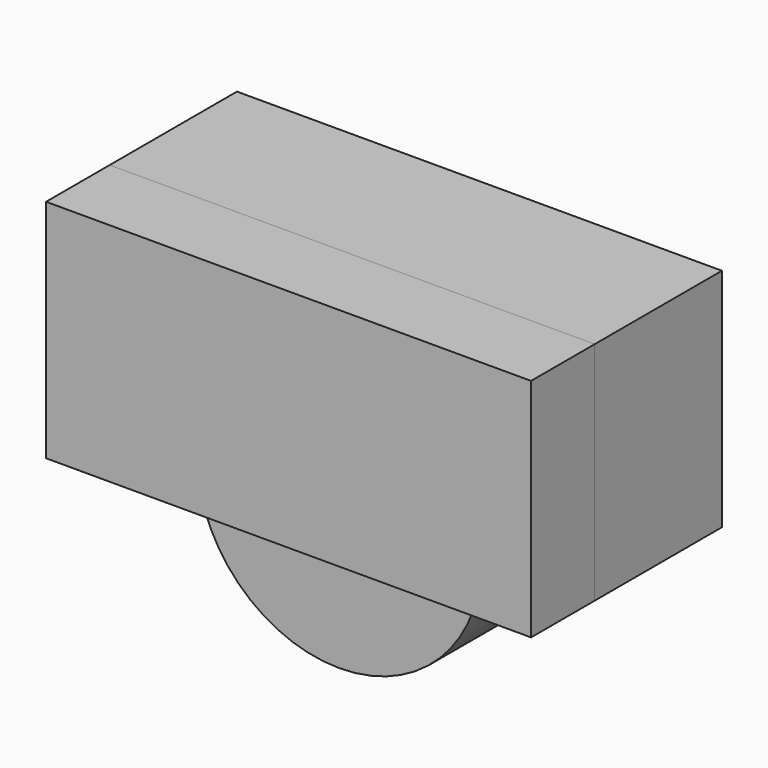
from build123d import *

# Parameters (mm, degrees)
F0_W     = 77.448103
F0_H     = 36.063619
F1_DEPTH = 25.4
F3_DEPTH = 12.7


with BuildPart() as f1:
    # F0 (on Front) → F1 (new body)
    with BuildSketch(Plane.XZ):
        with Locations((2.069225, 18.031809)):
            Rectangle(F0_W, F0_H)
    extrude(amount=F1_DEPTH)


with BuildPart() as f3:
    # F2 (on face) → F3 (new body, symmetric)
    with BuildSketch(Plane(origin=(0, 0, 0), x_dir=(-1, 0, 0), z_dir=(0, 1, 0))):
        with BuildLine():
            ThreePointArc((-22.744577, 0), (0, 22.744577), (22.744577, 0))
            Line((22.744577, 0), (36.654826, 0))
            Line((36.654826, 0), (36.654826, 36.063619))
            Line((36.654826, 36.063619), (-40.793277, 36.063619))
            Line((-40.793277, 36.063619), (-40.793277, 0))
            Line((-40.793277, 0), (-22.744577, 0))
        make_face()
        with BuildLine():
            Line((-22.744577, 0), (22.744577, 0))
            ThreePointArc((22.744577, 0), (0, 22.744577), (-22.744577, 0))
        make_face()
        with BuildLine():
            ThreePointArc((-22.744577, 0), (0, -22.744577), (22.744577, 0))
            Line((22.744577, 0), (-22.744577, 0))
        make_face()
    extrude(amount=F3_DEPTH, both=True)


solid = Compound([f1.part, f3.part])
